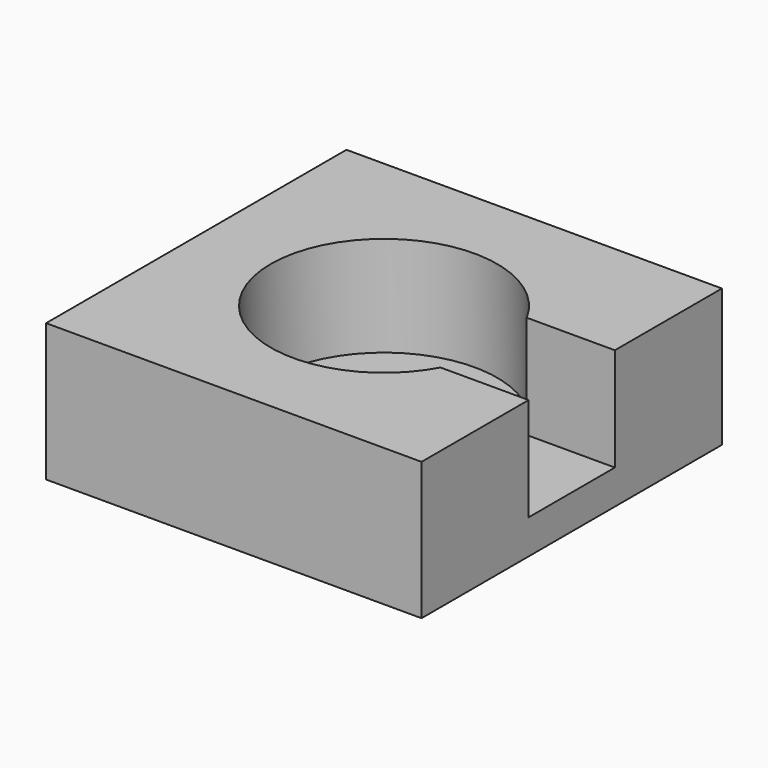
from build123d import *

# Parameters (mm, degrees)
F0_W     = 60
F0_H     = 60
F1_DEPTH = 22
F2_R     = 18.1
F3_DEPTH = 16
F4_W     = 17.230908
F4_H     = 16.499999
F5_DEPTH = 25


with BuildPart() as f1:
    # F0 (on Top) → F1 (new body)
    with BuildSketch(Plane.XY):
        Rectangle(F0_W, F0_H)
    extrude(amount=-F1_DEPTH)

    # F2 (on face) → F3 (cut)
    with BuildSketch(Plane.XY):
        Circle(F2_R)
    extrude(amount=-F3_DEPTH, mode=Mode.SUBTRACT)

    # F4 (on face) → F5 (cut)
    with BuildSketch(Plane.YZ.offset(30)):
        with Locations((0, -8.249999)):
            Rectangle(F4_W, F4_H)
    extrude(amount=-F5_DEPTH, mode=Mode.SUBTRACT)


solid = f1.part
